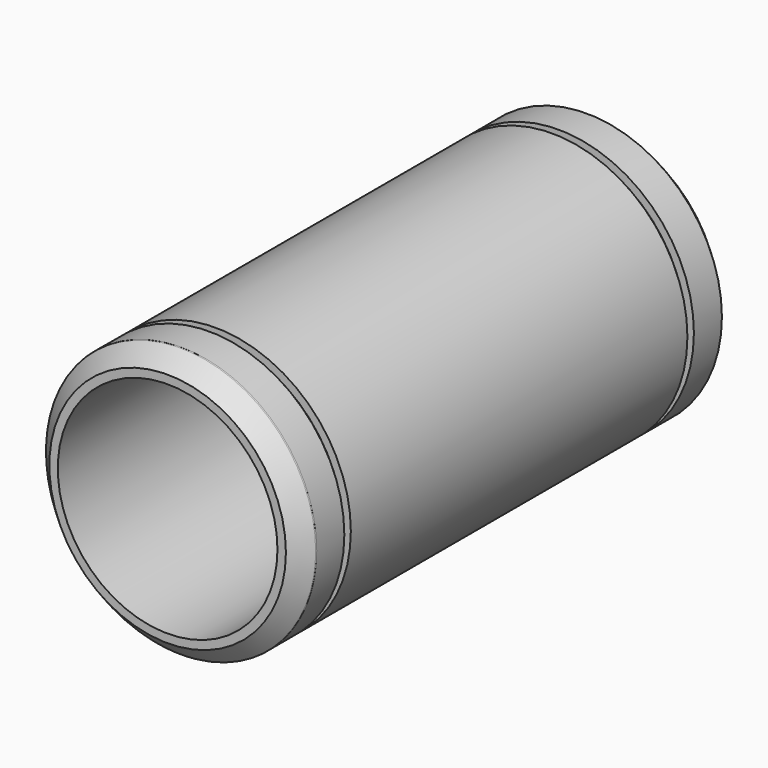
from build123d import *

# Parameters (mm, degrees)
F0_R     = 12.7
F1_DEPTH = 50.8
F2_SIZE  = 1.5875
F3_W     = 0.762
F3_H     = 1.8157000701
F6_R     = 0.127
F7_R     = 10.31875
F8_DEPTH = 50.801


with BuildPart() as f1:
    # F0 (on Front) → F1 (new body)
    with BuildSketch(Plane.XZ):
        Circle(F0_R)
    extrude(amount=F1_DEPTH)

    # F2
    f2_edges = [f1.edges().sort_by_distance(p)[0] for p in [
        (-12.7, -50.8, 0),
        (-12.7, 0, 0),
    ]]
    chamfer(f2_edges, length=F2_SIZE)

    # F3 (on Right) → F5 (revolve, cut)
    with BuildSketch(Plane.YZ):
        with Locations((-45.5422, 12.845850035)):
            Rectangle(F3_W, F3_H)
        with Locations((-5.2578, 12.845850035)):
            Rectangle(F3_W, F3_H)
    revolve(axis=Axis((0, -27.9251299798, 0), (0, -1, 0)), mode=Mode.SUBTRACT)

    # F6
    f6_edges = [f1.edges().sort_by_distance(p)[0] for p in [
        (-12.7, -49.2125, 0),
    ]]
    fillet(f6_edges, radius=F6_R)

    # F7 (on face) → F8 (cut, through all)
    with BuildSketch(Plane.XZ.offset(50.8)):
        Circle(F7_R)
    extrude(amount=-F8_DEPTH, mode=Mode.SUBTRACT)


solid = f1.part
